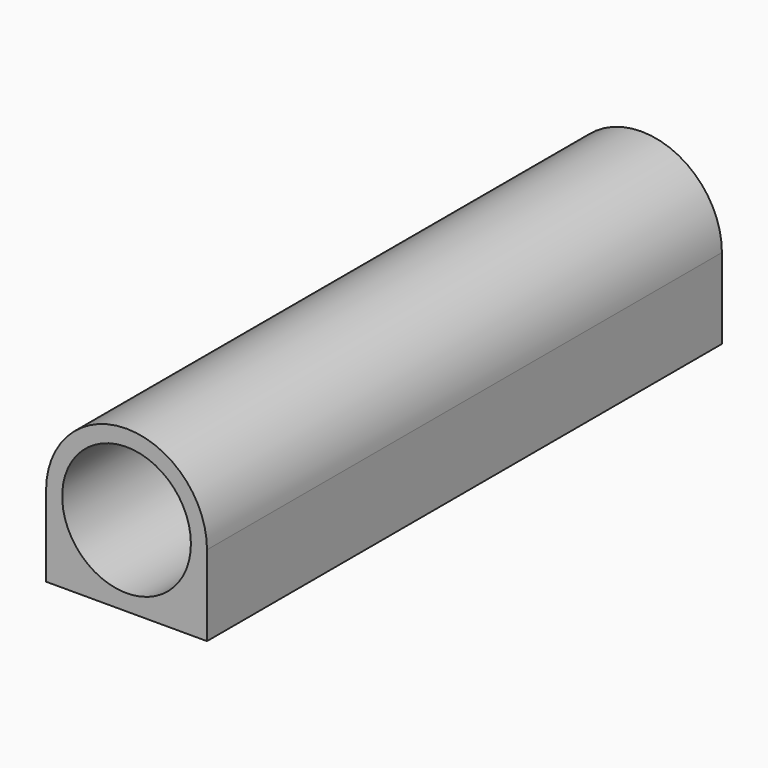
from build123d import *

# Parameters (mm, degrees)
F0_R     = 4
F1_DEPTH = 40


with BuildPart() as f1:
    # F0 (on Front) → F1 (new body)
    with BuildSketch(Plane.XZ):
        with BuildLine():
            ThreePointArc((-5.386362, 16.181819), (-8.921896, 17.646285), (-10.386362, 21.181819))
            Line((-10.386362, 21.181819), (-10.386362, 16.181819))
            Line((-10.386362, 16.181819), (-5.386362, 16.181819))
        make_face()
        with BuildLine():
            ThreePointArc((-5.386362, 16.181819), (-1.850828, 17.646285), (-0.386362, 21.181819))
            ThreePointArc((-0.386362, 21.181819), (-5.386362, 26.181819), (-10.386362, 21.181819))
            ThreePointArc((-10.386362, 21.181819), (-8.921896, 17.646285), (-5.386362, 16.181819))
        make_face()
        with Locations((-5.386362, 21.181819)):
            Circle(F0_R, mode=Mode.SUBTRACT)
        with BuildLine():
            Line((-0.386362, 16.181819), (-0.386362, 21.181819))
            ThreePointArc((-0.386362, 21.181819), (-1.850828, 17.646285), (-5.386362, 16.181819))
            Line((-5.386362, 16.181819), (-0.386362, 16.181819))
        make_face()
    extrude(amount=F1_DEPTH)


solid = f1.part
